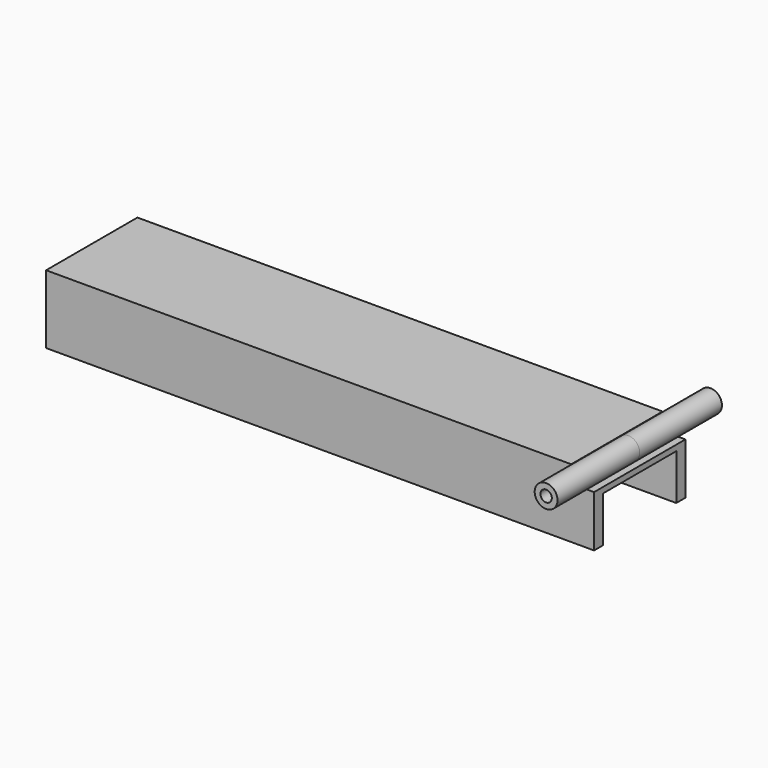
from build123d import *

# Parameters (mm, degrees)
F1_DEPTH      = 152.4
F2_W          = 152.4
F2_H          = 31.75
F3_DEPTH      = 3.175
F5_DEPTH      = 31.751
F7_R          = 3.175
F8_DEPTH      = 28.575
F8_DEPTH_BACK = 28.575
F9_R          = 1.5875
F10_DEPTH     = 57.151


with BuildPart() as f1:
    # F0 (on Right) → F1 (new body)
    with BuildSketch(Plane.YZ):
        Polygon((0, 15.875), (0, 0), (3.175, 0), (3.175, 12.7), (28.575, 12.7), (28.575, 0), (31.75, 0), (31.75, 15.875), align=None)
    extrude(amount=F1_DEPTH)

    # F2 (on face) → F3 (join)
    with BuildSketch(Plane.XY.offset(15.875)):
        with Locations((76.2, 15.875)):
            Rectangle(F2_W, F2_H)
    extrude(amount=F3_DEPTH)

    # F4 (on face) → F5 (cut, through all)
    with BuildSketch(Plane.XZ):
        with BuildLine():
            Line((146.05, 19.05), (146.05, 17.4625))
            ThreePointArc((146.05, 17.4625), (146.979936, 15.217436), (149.225, 14.2875))
            Line((149.225, 14.2875), (152.4, 14.2875))
            Line((152.4, 14.2875), (152.4, 17.4625))
            Line((152.4, 17.4625), (152.4, 19.05))
            Line((152.4, 19.05), (151.974631, 19.05))
            Line((151.974631, 19.05), (146.05, 19.05))
        make_face()
    extrude(amount=-F5_DEPTH, mode=Mode.SUBTRACT)

    # F7 (on offset) → F8 (join, two sides)
    with BuildSketch(Plane.XZ.offset(-15.875)) as f8_sk:
        with Locations((149.225, 17.4625)):
            Circle(F7_R)
    extrude(amount=F8_DEPTH)
    extrude(f8_sk.sketch, amount=-F8_DEPTH_BACK)

    # F9 (on face) → F10 (cut, through all)
    with BuildSketch(Plane.XZ.offset(12.7)):
        with Locations((149.225, 17.4625)):
            Circle(F9_R)
    extrude(amount=-F10_DEPTH, mode=Mode.SUBTRACT)


solid = f1.part
